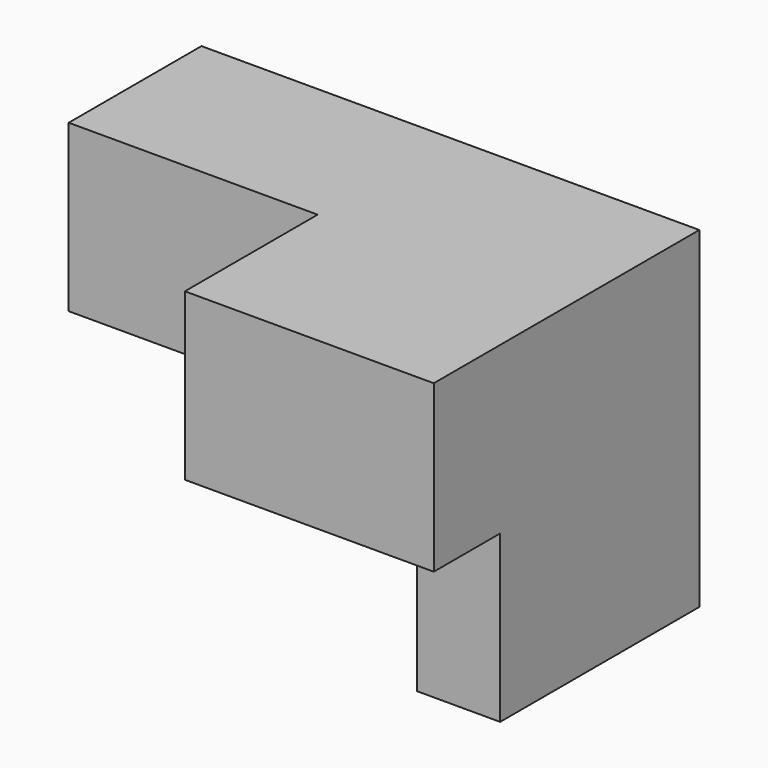
from build123d import *

# Parameters (mm, degrees)
F0_W     = 101.6
F0_H     = 50.8
F1_DEPTH = 152.4
F2_W     = 50.8
F2_H     = 50.8
F3_DEPTH = 76.2
F4_W     = 25.4
F4_H     = 76.2
F5_DEPTH = 50.8


with BuildPart() as f1:
    # F0 (on Right) → F1 (new body)
    with BuildSketch(Plane.YZ):
        with Locations((50.8, 25.4)):
            Rectangle(F0_W, F0_H)
    extrude(amount=F1_DEPTH)

    # F2 (on Right) → F3 (cut)
    with BuildSketch(Plane.YZ):
        with Locations((25.4, 25.4)):
            Rectangle(F2_W, F2_H)
    extrude(amount=F3_DEPTH, mode=Mode.SUBTRACT)

    # F4 (on face) → F5 (join)
    with BuildSketch(Plane(origin=(0, 0, 0), x_dir=(1, 0, 0), z_dir=(0, 0, -1))):
        with Locations((139.7, -63.5)):
            Rectangle(F4_W, F4_H)
    extrude(amount=F5_DEPTH)


solid = f1.part
